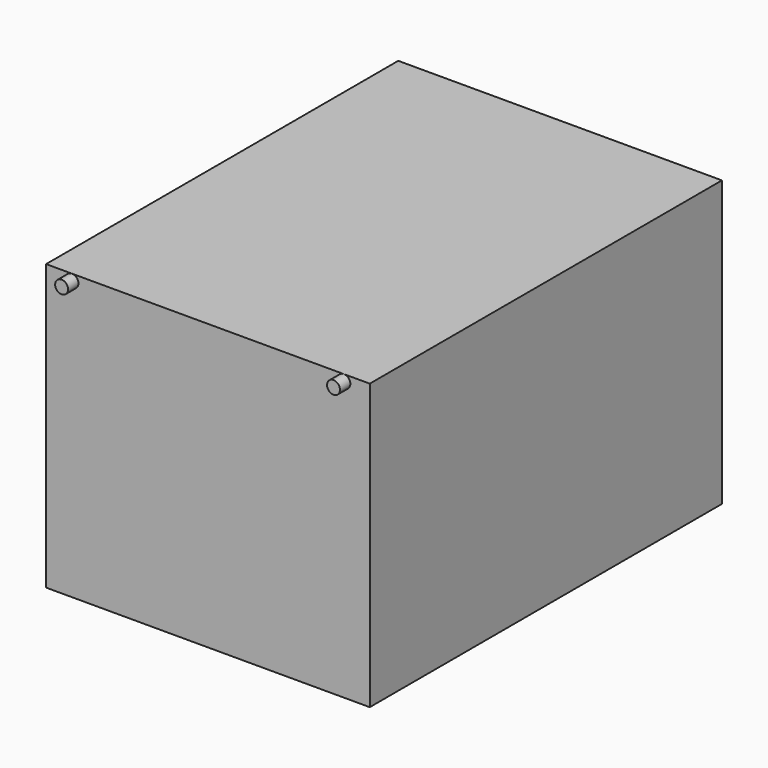
from build123d import *

# Parameters (mm, degrees)
F0_W     = 317.5
F0_H     = 431.8
F1_DEPTH = 279.4
F2_R     = 6.35
F3_DEPTH = 12.7
F4_R     = 6.35
F5_DEPTH = 12.7


with BuildPart() as f1:
    # F0 (on Top) → F1 (new body)
    with BuildSketch(Plane.XY):
        with Locations((-158.75, 215.9)):
            Rectangle(F0_W, F0_H)
    extrude(amount=F1_DEPTH)

    # F2 (on face) → F3 (join)
    with BuildSketch(Plane(origin=(0, 431.8, 0), x_dir=(-1, 0, 0), z_dir=(0, 1, 0))):
        with Locations((158.75, 6.35)):
            Circle(F2_R)
    extrude(amount=F3_DEPTH)

    # F4 (on face) → F5 (join)
    with BuildSketch(Plane.XZ):
        with BuildLine():
            ThreePointArc((-298.45, 273.05), (-292.1, 266.7), (-285.75, 273.05))
            ThreePointArc((-285.75, 273.05), (-292.1, 279.4), (-298.45, 273.05))
        make_face()
        with Locations((-25.4, 273.05)):
            Circle(F4_R)
    extrude(amount=F5_DEPTH)


solid = f1.part
